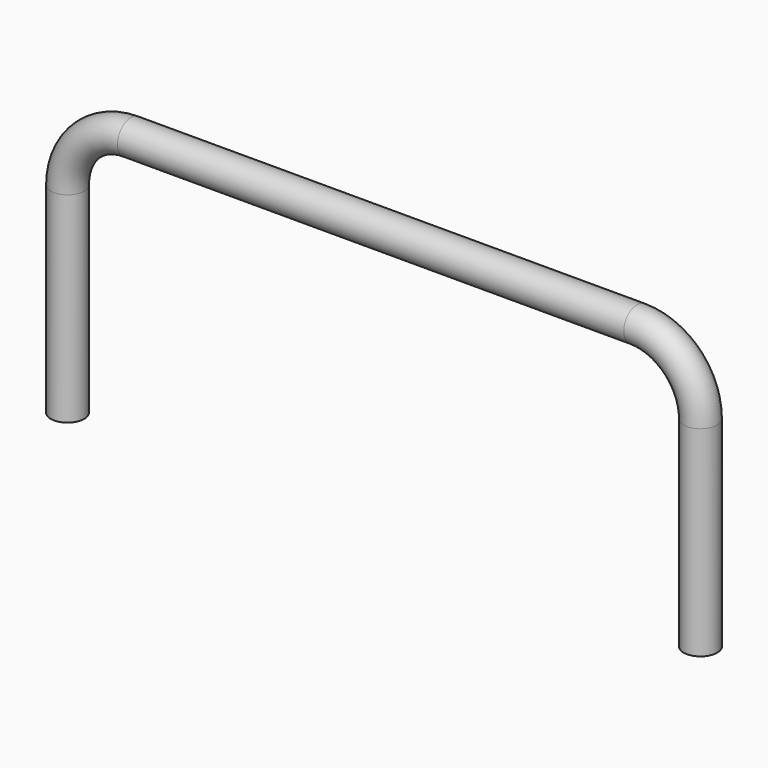
from build123d import *

# Parameters (mm, degrees)
F1_R = 3.175


with BuildPart() as f2:
    # F2: sweep along a path in F0
    with BuildLine(Plane.XZ) as f2_path:
        Line((0, 0), (0, 38))
        ThreePointArc((0, 38), (3.5147186258, 46.4852813742), (12, 50))
        Line((12, 50), (108, 50))
        ThreePointArc((108, 50), (116.4852813742, 46.4852813742), (120, 38))
        Line((120, 38), (120, 0))
    # F1 (on Top) → F2 (sweep)
    with BuildSketch(Plane.XY):
        Circle(F1_R)
    sweep(path=f2_path.line)


solid = f2.part
